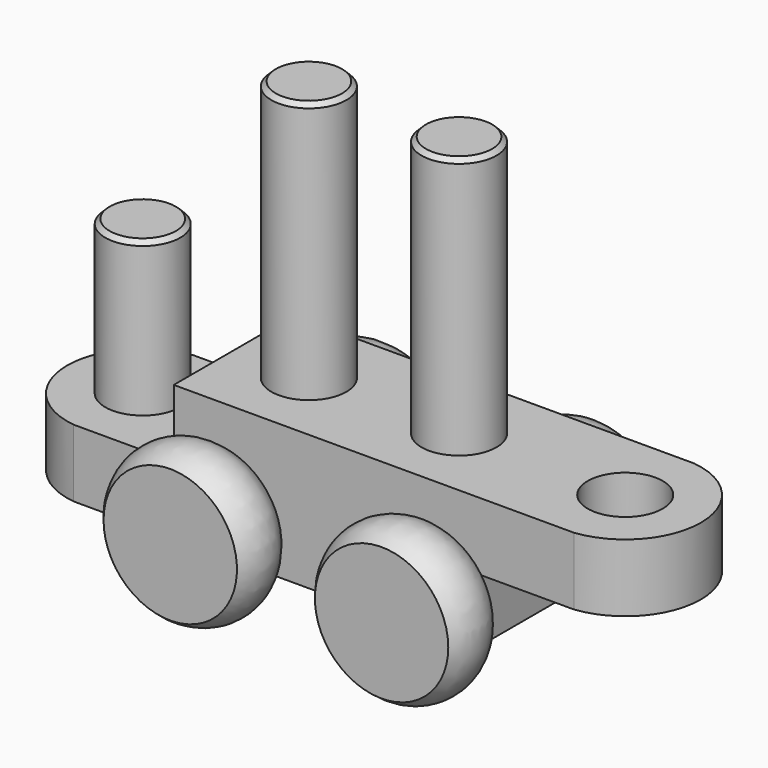
from build123d import *

# Parameters (mm, degrees)
F0_W      = 85.7504
F0_H      = 42.8752
F0_R      = 10.7188
F1_DEPTH  = 38.608
F2_R      = 10.7188
F3_DEPTH  = 74.6125
F4_R      = 10.7188
F5_DEPTH  = 19.304
F6_R      = 10.7188
F7_DEPTH  = 63.1952
F8_DEPTH  = 19.304
F9_SIZE   = 1.27
F10_SIZE  = 1.27
F11_SIZE  = 1.27
F12_R     = 7.62
F12_R_2   = 6.35
F13_DEPTH = 42.8752
F14_DEPTH = 1.27
F15_DEPTH = 1.27


with BuildPart() as f1:
    # F0 (on Top) → F1 (new body)
    with BuildSketch(Plane.XY):
        Rectangle(F0_W, F0_H)
        with Locations((-21.4376, 0)):
            Circle(F0_R, mode=Mode.SUBTRACT)
        with Locations((21.4376, 0)):
            Circle(F0_R, mode=Mode.SUBTRACT)
        with Locations((-21.4376, 0)):
            Circle(F0_R)
        with Locations((21.4376, 0)):
            Circle(F0_R)
    extrude(amount=F1_DEPTH)

    # F2 (on face) → F3 (join)
    with BuildSketch(Plane.XY.offset(38.608)):
        with Locations((-21.4376, 0)):
            Circle(F2_R)
        with Locations((21.4376, 0)):
            Circle(F2_R)
    extrude(amount=F3_DEPTH)

    # F4 (on face) → F5 (join)
    with BuildSketch(Plane.XY.offset(38.608)):
        with BuildLine():
            Line((42.8752, 21.4376), (42.8752, -21.4376))
            Line((42.8752, -21.4376), (71.4502, -21.4376))
            ThreePointArc((71.4502, -21.4376), (90.493017769, 0), (71.4502, 21.4376))
            Line((71.4502, 21.4376), (42.8752, 21.4376))
        make_face()
        with Locations((68.9048365366, 0)):
            Circle(F4_R, mode=Mode.SUBTRACT)
    extrude(amount=-F5_DEPTH)



with BuildPart() as f7:
    # F6 (on face) → F7 (new body)
    with BuildSketch(Plane(origin=(0, 0, 0), x_dir=(1, 0, 0), z_dir=(0, 0, -1))):
        with Locations((-68.8894567017, 0)):
            Circle(F6_R)
    extrude(amount=-F7_DEPTH)


with BuildPart() as f1_1:
    add(f1.part)

    add(f7.part)  # F8 merges F7
    # F6 (on face) → F8 (join)
    with BuildSketch(Plane(origin=(0, 0, 0), x_dir=(1, 0, 0), z_dir=(0, 0, -1))):
        with BuildLine():
            Line((-71.4502, -21.4376), (-42.8752, -21.4376))
            Line((-42.8752, -21.4376), (-42.8752, 21.4376))
            Line((-42.8752, 21.4376), (-71.4502, 21.4376))
            ThreePointArc((-71.4502, 21.4376), (-90.4794567017, 0), (-71.4502, -21.4376))
        make_face()
        with Locations((-68.8894567017, 0)):
            Circle(F6_R, mode=Mode.SUBTRACT)
    extrude(amount=-F8_DEPTH)

    # F9
    f9_edges = [f1_1.edges().sort_by_distance(p)[0] for p in [
        (-32.1564, 0, 113.2205),
    ]]
    chamfer(f9_edges, length=F9_SIZE)

    # F10
    f10_edges = [f1_1.edges().sort_by_distance(p)[0] for p in [
        (10.7188, 0, 113.2205),
    ]]
    chamfer(f10_edges, length=F10_SIZE)

    # F11
    f11_edges = [f1_1.edges().sort_by_distance(p)[0] for p in [
        (-79.608257, 0, 63.1952),
    ]]
    chamfer(f11_edges, length=F11_SIZE)

    # F12 (on face) → F13 (cut, through all)
    with BuildSketch(Plane.XZ.offset(21.4376)):
        with Locations((-29.9122203141, 9.525)):
            Circle(F12_R)
        with Locations((-29.9122203141, 9.525)):
            Circle(F12_R_2, mode=Mode.SUBTRACT)
        with Locations((30.1752, 9.525)):
            Circle(F12_R)
        with Locations((30.1752, 9.525)):
            Circle(F12_R_2, mode=Mode.SUBTRACT)
    extrude(amount=-F13_DEPTH, mode=Mode.SUBTRACT)

    # F14 (add): faces of the model
    f14_faces = [f1_1.faces().sort_by_distance(p)[0] for p in [
        (-29.9122203141, -21.4376, 9.525),
        (30.1752, -21.4376, 9.525),
    ]]
    extrude(f14_faces, amount=F14_DEPTH)

    # F15 (add): faces of the model
    f15_faces = [f1_1.faces().sort_by_distance(p)[0] for p in [
        (30.1752, 21.4376, 9.525),
        (-29.9122203141, 21.4376, 9.525),
    ]]
    extrude(f15_faces, amount=F15_DEPTH)

    # F17 (on line) → F18 (revolve)
    with BuildSketch(Plane.XY.offset(9.525)):
        with BuildLine():
            Line((30.1752, -22.7076), (30.1752, -38.5826))
            Line((30.1752, -38.5826), (49.2252, -38.5826))
            ThreePointArc((49.2252, -38.5826), (52.4002, -30.6451), (49.2252, -22.7076))
            Line((49.2252, -22.7076), (30.1752, -22.7076))
        make_face()
    revolve(axis=Axis((30.1752, -22.7076, 9.525), (0, -1, 0)))

    # F17 (on line) → F19 (revolve)
    with BuildSketch(Plane.XY.offset(9.525)):
        with BuildLine():
            Line((30.1752, 38.5826), (30.1752, 22.7076))
            Line((30.1752, 22.7076), (49.2252, 22.7076))
            ThreePointArc((49.2252, 22.7076), (52.4002, 30.6451), (49.2252, 38.5826))
            Line((49.2252, 38.5826), (30.1752, 38.5826))
        make_face()
    revolve(axis=Axis((30.1752, 30.6451, 9.525), (0, 1, 0)))

    # F17 (on line) → F20 (revolve)
    with BuildSketch(Plane.XY.offset(9.525)):
        with BuildLine():
            Line((-30.1752, 22.7076), (-30.1752, 38.5826))
            Line((-30.1752, 38.5826), (-49.2252, 38.5826))
            ThreePointArc((-49.2252, 38.5826), (-52.4002, 30.6451), (-49.2252, 22.7076))
            Line((-49.2252, 22.7076), (-30.1752, 22.7076))
        make_face()
    revolve(axis=Axis((-30.1752, 30.6451, 9.525), (0, 1, 0)))

    # F17 (on line) → F21 (revolve)
    with BuildSketch(Plane.XY.offset(9.525)):
        with BuildLine():
            Line((-30.1752, -38.5826), (-30.1752, -22.7076))
            Line((-30.1752, -22.7076), (-49.2252, -22.7076))
            ThreePointArc((-49.2252, -22.7076), (-52.4002, -30.6451), (-49.2252, -38.5826))
            Line((-49.2252, -38.5826), (-30.1752, -38.5826))
        make_face()
    revolve(axis=Axis((-30.1752, -30.6451, 9.525), (0, -1, 0)))


solid = f1_1.part
